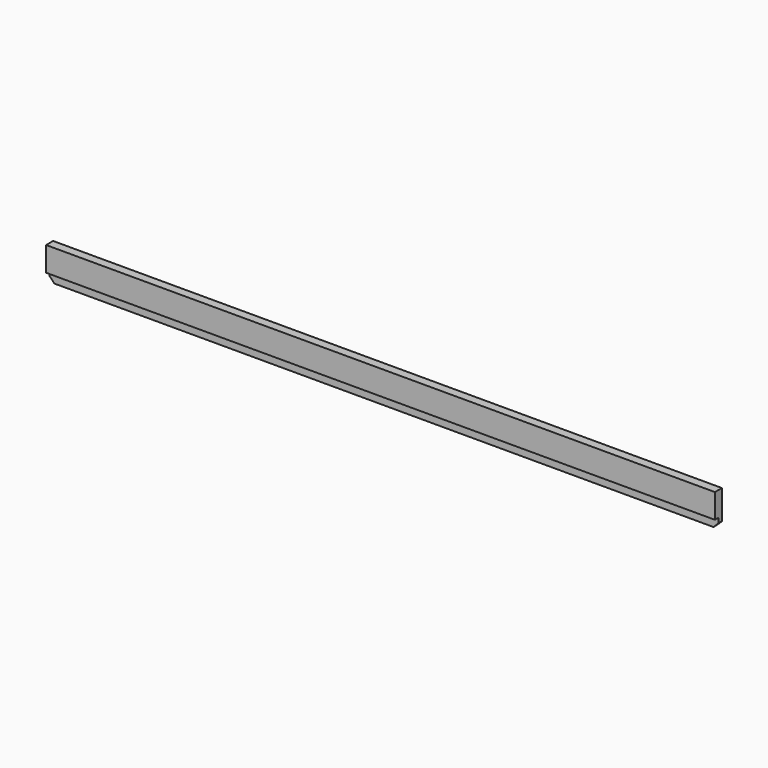
from build123d import *

# Parameters (mm, degrees)
F0_W     = 1370
F0_H     = 70
F1_DEPTH = 9
F2_W     = 1370
F2_H     = 50
F3_DEPTH = 9
F4_SIZE  = 10
F5_SIZE  = 5


with BuildPart() as f1:
    # F0 (on Front) → F1 (new body)
    with BuildSketch(Plane.XZ):
        Rectangle(F0_W, F0_H)
    extrude(amount=F1_DEPTH)

    # F2 (on face) → F3 (join)
    with BuildSketch(Plane.XZ.offset(9)):
        with Locations((0, 10)):
            Rectangle(F2_W, F2_H)
    extrude(amount=F3_DEPTH)

    # F4
    f4_edges = [f1.edges().sort_by_distance(p)[0] for p in [
        (685, -4.5, -35),
        (-685, -4.5, -35),
    ]]
    chamfer(f4_edges, length=F4_SIZE)

    # F5
    f5_edges = [f1.edges().sort_by_distance(p)[0] for p in [
        (0, 0, -35),
    ]]
    chamfer(f5_edges, length=F5_SIZE)


solid = f1.part
